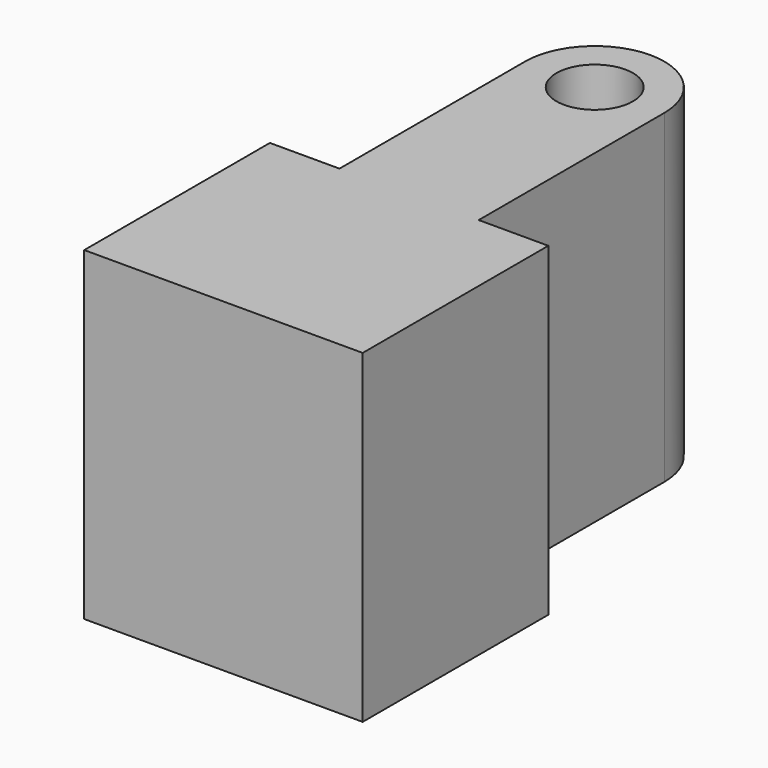
from build123d import *

# Parameters (mm, degrees)
F0_R     = 1.65
F1_DEPTH = 14


with BuildPart() as f1:
    # F0 (on Top) → F1 (new body)
    with BuildSketch(Plane.XY):
        with BuildLine():
            Line((-36.955225, -4.099561), (-39.955225, -4.099561))
            Line((-39.955225, -4.099561), (-39.955225, -14.099561))
            Line((-39.955225, -14.099561), (-27.955225, -14.099561))
            Line((-27.955225, -14.099561), (-27.955225, -4.099561))
            Line((-27.955225, -4.099561), (-30.955225, -4.099561))
            Line((-30.955225, -4.099561), (-30.955225, 5.900439))
            ThreePointArc((-30.955225, 5.900439), (-33.955225, 8.900439), (-36.955225, 5.900439))
            Line((-36.955225, 5.900439), (-36.955225, -4.099561))
        make_face()
        with Locations((-33.955225, 5.900439)):
            Circle(F0_R, mode=Mode.SUBTRACT)
    extrude(amount=F1_DEPTH)


solid = f1.part
